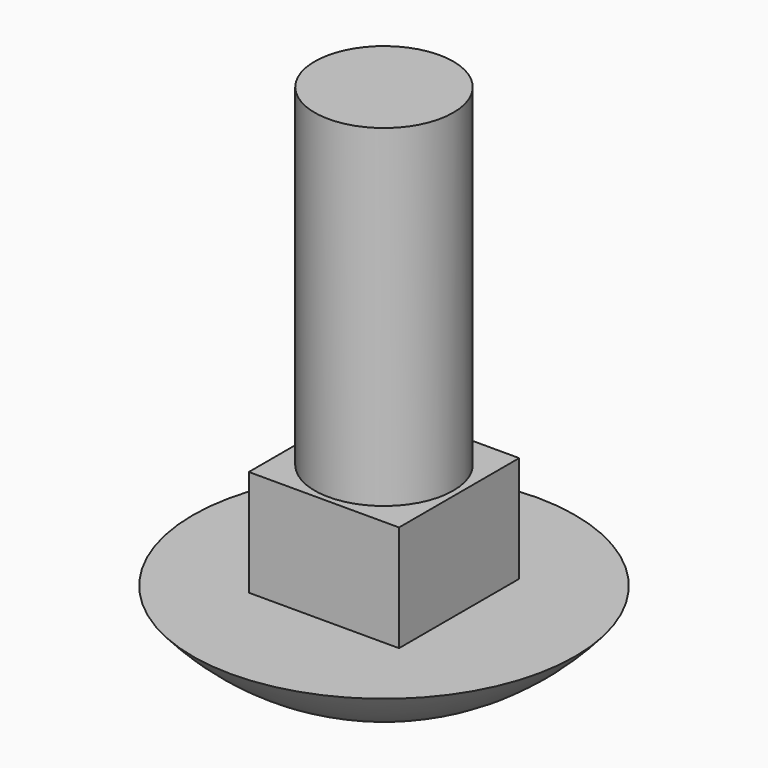
from build123d import *

# Parameters (mm, degrees)
F0_W     = 6.5
F0_H     = 6.5
F1_DEPTH = 4.6
F2_R     = 3
F3_DEPTH = 14.4


with BuildPart() as f1:
    # F0 (on Top) → F1 (new body)
    with BuildSketch(Plane.XY):
        Rectangle(F0_W, F0_H)
    extrude(amount=F1_DEPTH)

    # F2 (on face) → F3 (join)
    with BuildSketch(Plane.XY.offset(4.6)):
        Circle(F2_R)
    extrude(amount=F3_DEPTH)

    # F4 (on Right) → F5 (revolve)
    with BuildSketch(Plane.YZ):
        with BuildLine():
            ThreePointArc((0, -3.8), (4.552901, -2.80459), (8.275, 0))
            Line((8.275, 0), (0, 0))
            Line((0, 0), (0, -3.8))
        make_face()
    revolve(axis=Axis((0, 0, -1.9), (0, 0, -1)))


solid = f1.part
